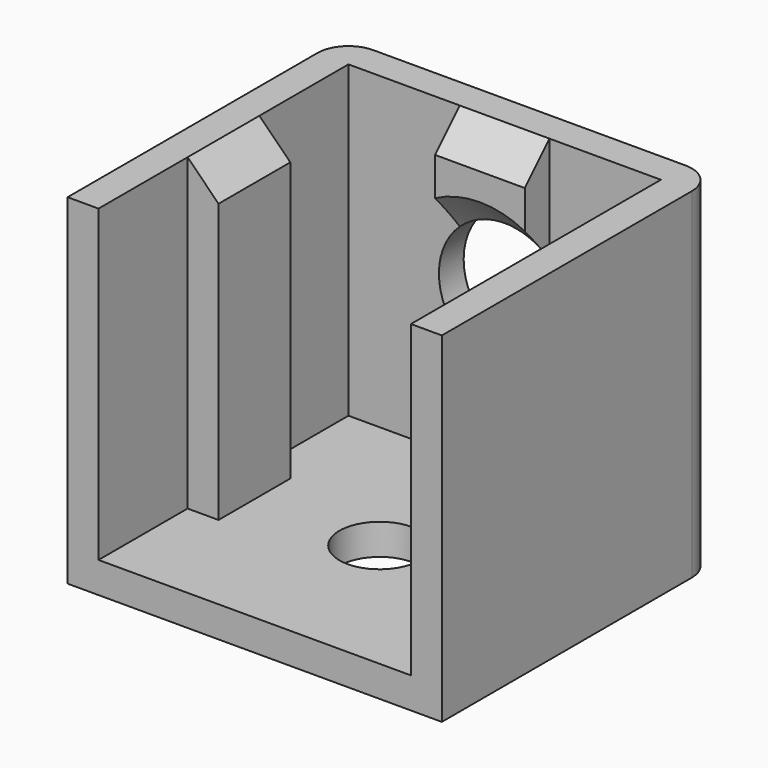
from build123d import *

# Parameters (mm, degrees)
F1_W      = 5.8
F1_H      = 2
F2_DEPTH  = 20
F4_COUNT  = 4
F5_R      = 4.25
F6_DEPTH  = 24.201
F8_DEPTH  = 20.001
F9_W      = 24.2
F9_H      = 22.2
F9_R      = 2.6
F10_DEPTH = 2
F11_R     = 2
F12_SIZE  = 2


with BuildPart() as f2:
    # F1 (on Top) → F2 (new body)
    with BuildSketch(Plane.XY):
        Polygon((-12.1, 12.1), (-12.1, 10.1), (-2.9, 10.1), (2.9, 10.1), (12.1, 10.1), (12.1, 12.1), align=None)
        with Locations((0, 9.1)):
            Rectangle(F1_W, F1_H)
    extrude(amount=F2_DEPTH)

    # F4: F2 ×4 about axis
    f4_axis = Axis((0, 0, 13.2065918297), (0, 0, 1))


with BuildPart() as f2_1:
    add(f2.part)
    for i in range(1, F4_COUNT):
        add(f2.part.rotate(f4_axis, i * 360 / F4_COUNT))

    # F5 (on face) → F6 (cut, through all)
    with BuildSketch(Plane(origin=(0, 12.1, 0), x_dir=(-1, 0, 0), z_dir=(0, 1, 0))):
        with Locations((0, 10)):
            Circle(F5_R)
    extrude(amount=-F6_DEPTH, mode=Mode.SUBTRACT)

    # F7 (on face) → F8 (cut, through all)
    with BuildSketch(Plane.XY.offset(20)):
        Polygon((-2.9, -8.1), (-10.1, -10.1), (-12.1, -10.1), (-12.1, -12.1), (12.1, -12.1), (12.1, -10.1), (10.1, -10.1), (2.9, -8.1), align=None)
    extrude(amount=-F8_DEPTH, mode=Mode.SUBTRACT)

    # F9 (on face) → F10 (join)
    with BuildSketch(Plane(origin=(0, 0, 0), x_dir=(1, 0, 0), z_dir=(0, 0, -1))):
        with Locations((0, -1)):
            Rectangle(F9_W, F9_H)
        Circle(F9_R, mode=Mode.SUBTRACT)
    extrude(amount=F10_DEPTH)

    # F11
    f11_edges = [f2_1.edges().sort_by_distance(p)[0] for p in [
        (-12.1, 12.1, 9),
        (12.1, 12.1, 9),
    ]]
    fillet(f11_edges, radius=F11_R)

    # F12
    f12_edges = [f2_1.edges().sort_by_distance(p)[0] for p in [
        (0, 8.1, 5.75),
        (0, 8.1, 14.25),
        (-8.1, 0, 20),
        (0, 8.1, 20),
        (8.1, 0, 20),
    ]]
    chamfer(f12_edges, length=F12_SIZE)


solid = f2_1.part
